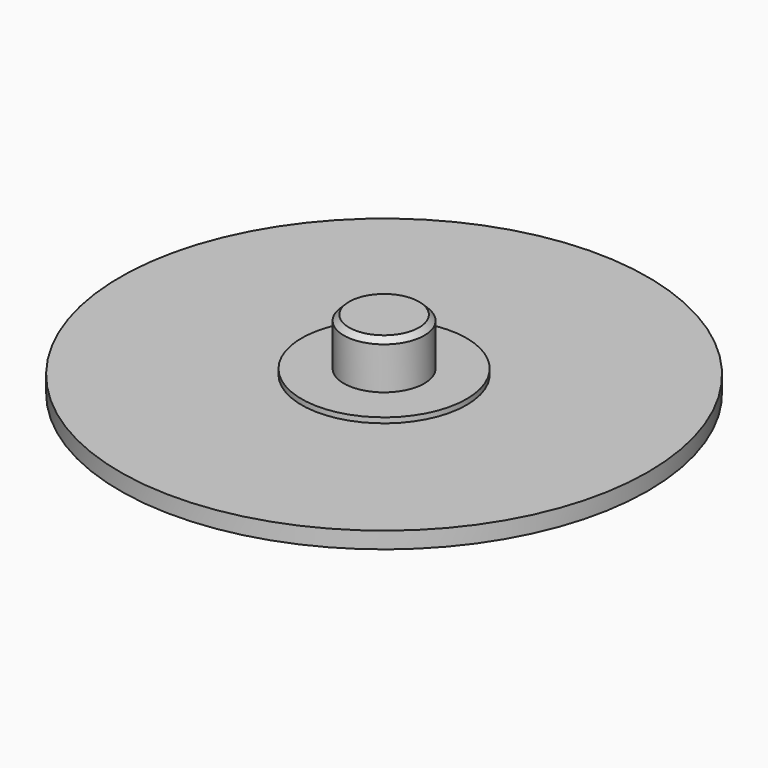
from build123d import *

# Parameters (mm, degrees)
F0_R     = 25.4
F0_R_2   = 7.9375
F0_R_3   = 3.8735
F1_DEPTH = 1.5875
F2_DEPTH = 5.08
F3_SIZE  = 0.508
F4_DEPTH = 0.508


with BuildPart() as f1:
    # F0 (on Top) → F1 (new body)
    with BuildSketch(Plane.XY):
        Circle(F0_R)
        Circle(F0_R_2, mode=Mode.SUBTRACT)
        Circle(F0_R_2)
        Circle(F0_R_3, mode=Mode.SUBTRACT)
        Circle(F0_R_3)
    extrude(amount=-F1_DEPTH)

    # F0 (on Top) → F2 (join)
    with BuildSketch(Plane.XY):
        Circle(F0_R_3)
    extrude(amount=F2_DEPTH)

    # F3
    f3_edges = [f1.edges().sort_by_distance(p)[0] for p in [
        (-3.8735, 0, 5.08),
    ]]
    chamfer(f3_edges, length=F3_SIZE)

    # F0 (on Top) → F4 (join)
    with BuildSketch(Plane.XY):
        Circle(F0_R_2)
        Circle(F0_R_3, mode=Mode.SUBTRACT)
    extrude(amount=F4_DEPTH)


solid = f1.part
